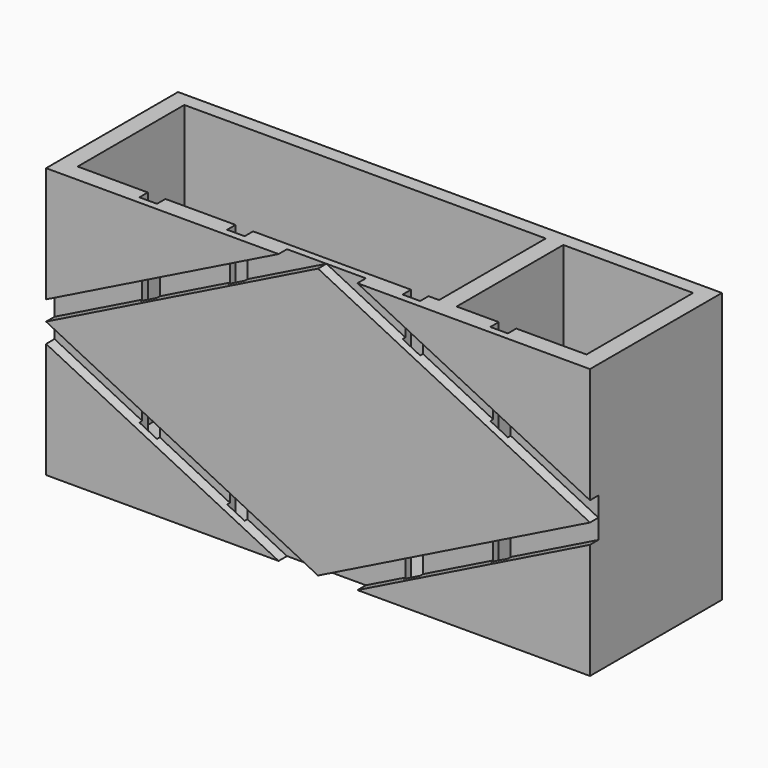
from build123d import *

# Parameters (mm, degrees)
F0_W     = 155
F0_H     = 47
F1_DEPTH = 77
F2_W     = 103
F2_H     = 38
F2_W_2   = 37
F3_DEPTH = 75
F5_DEPTH = 3
F6_W     = 5
F6_H     = 3
F7_DEPTH = 75


with BuildPart() as f1:
    # F0 (on Top) → F1 (new body)
    with BuildSketch(Plane.XY):
        Rectangle(F0_W, F0_H)
    extrude(amount=F1_DEPTH)

    # F2 (on face) → F3 (cut)
    with BuildSketch(Plane.XY.offset(77)):
        with Locations((-21, 0.5)):
            Rectangle(F2_W, F2_H)
        with Locations((54, 0.5)):
            Rectangle(F2_W_2, F2_H)
    extrude(amount=-F3_DEPTH, mode=Mode.SUBTRACT)

    # F4 (on face) → F5 (cut)
    with BuildSketch(Plane.XZ.offset(23.5)):
        Polygon((-77.5, 38.5), (0, 77), (-11.2384570943, 77), (-77.5, 44.0829754598), align=None)
        Polygon((0, 0), (-77.5, 38.5), (-77.5, 32.9170245402), (-11.2384570943, 0), align=None)
        Polygon((77.5, 32.9170245402), (77.5, 38.5), (0, 0), (11.2384570943, 0), align=None)
        Polygon((11.2384570943, 77), (0, 77), (77.5, 38.5), (77.5, 44.0829754598), align=None)
    extrude(amount=-F5_DEPTH, mode=Mode.SUBTRACT)

    # F6 (on face) → F7 (cut)
    with BuildSketch(Plane.XY.offset(77)):
        with Locations((50, -20)):
            Rectangle(F6_W, F6_H)
        with Locations((25, -20)):
            Rectangle(F6_W, F6_H)
        with Locations((-25, -20)):
            Rectangle(F6_W, F6_H)
        with Locations((-50, -20)):
            Rectangle(F6_W, F6_H)
    extrude(amount=-F7_DEPTH, mode=Mode.SUBTRACT)


solid = f1.part
